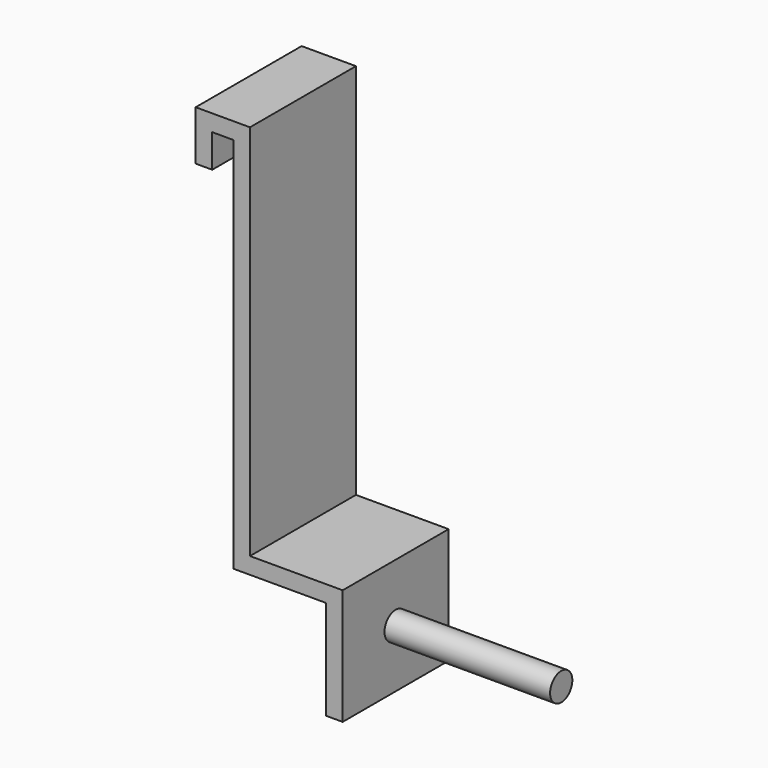
from build123d import *

# Parameters (mm, degrees)
F1_DEPTH = 20
F2_R     = 2.1
F3_DEPTH = 25


with BuildPart() as f1:
    # F0 (on Front) → F1 (new body)
    with BuildSketch(Plane.XZ):
        Polygon((0, 7.5), (0, 0), (2.5, 0), (2.5, 5), (5.7, 5), (5.7, -52), (19.7, -52), (19.7, -67), (22.2, -67), (22.2, -49.5), (8.2, -49.5), (8.2, 7.5), align=None)
    extrude(amount=F1_DEPTH)

    # F2 (on face) → F3 (join)
    with BuildSketch(Plane.YZ.offset(22.2)):
        with Locations((-10, -58.25)):
            Circle(F2_R)
    extrude(amount=F3_DEPTH)


solid = f1.part
